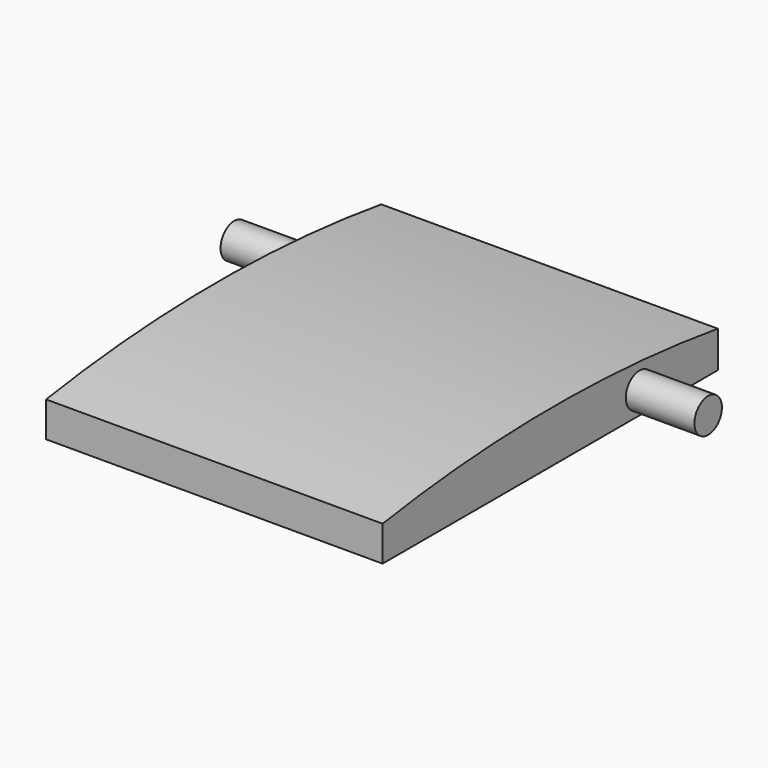
from build123d import *

# Parameters (mm, degrees)
PAD002_DEPTH = 9.8
SKETCH008_R  = 1
PAD003_DEPTH = 4
SKETCH009_R  = 1
PAD004_DEPTH = 4


with BuildPart() as part:
    # Sketch006 → Pad002 (new body, symmetric)
    with BuildSketch(Plane.YZ):
        with BuildLine():
            Line((12.2, 2), (-12.2, 2))
            Line((-12.2, 2), (-12.2, 4.047819))
            ThreePointArc((12.2, 4.12971), (-0.003057, 4.999537), (-12.2, 4.047819))
            Line((12.2, 2), (12.2, 4.12971))
        make_face()
    extrude(amount=PAD002_DEPTH, both=True)

    # Sketch008 → Pad003 (new body)
    with BuildSketch(Plane.YZ.offset(9.8)):
        with Locations((6.5, 3.3)):
            Circle(SKETCH008_R)
    extrude(amount=PAD003_DEPTH)

    # Sketch009 → Pad004 (new body)
    with BuildSketch(Plane(origin=(-9.8, 0, 0), x_dir=(0, 1, 0), z_dir=(-1, 0, 0))):
        with Locations((6.5, -3.3)):
            Circle(SKETCH009_R)
    extrude(amount=PAD004_DEPTH)


solid = part.part
